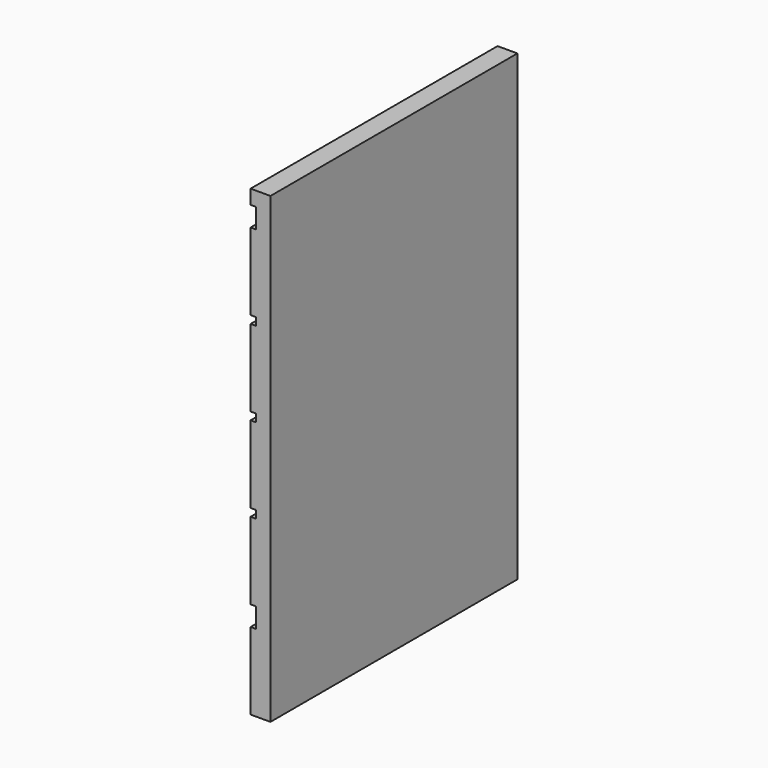
from build123d import *

# Parameters (mm, degrees)
F0_W     = 280
F0_H     = 420
F1_DEPTH = 18
F2_W     = 280
F2_H     = 18
F2_H_2   = 7
F3_DEPTH = 5


with BuildPart() as f1:
    # F0 (on Right) → F1 (new body)
    with BuildSketch(Plane.YZ):
        with Locations((140, 210)):
            Rectangle(F0_W, F0_H)
    extrude(amount=F1_DEPTH)

    # F2 (on face) → F3 (cut)
    with BuildSketch(Plane(origin=(0, 0, 0), x_dir=(0, -1, 0), z_dir=(-1, 0, 0))):
        with Locations((-140, 79)):
            Rectangle(F2_W, F2_H)
        with Locations((-140, 161.5)):
            Rectangle(F2_W, F2_H_2)
        with Locations((-140, 238.5)):
            Rectangle(F2_W, F2_H_2)
        with Locations((-140, 315.5)):
            Rectangle(F2_W, F2_H_2)
        with Locations((-140, 398)):
            Rectangle(F2_W, F2_H)
    extrude(amount=-F3_DEPTH, mode=Mode.SUBTRACT)


solid = f1.part
